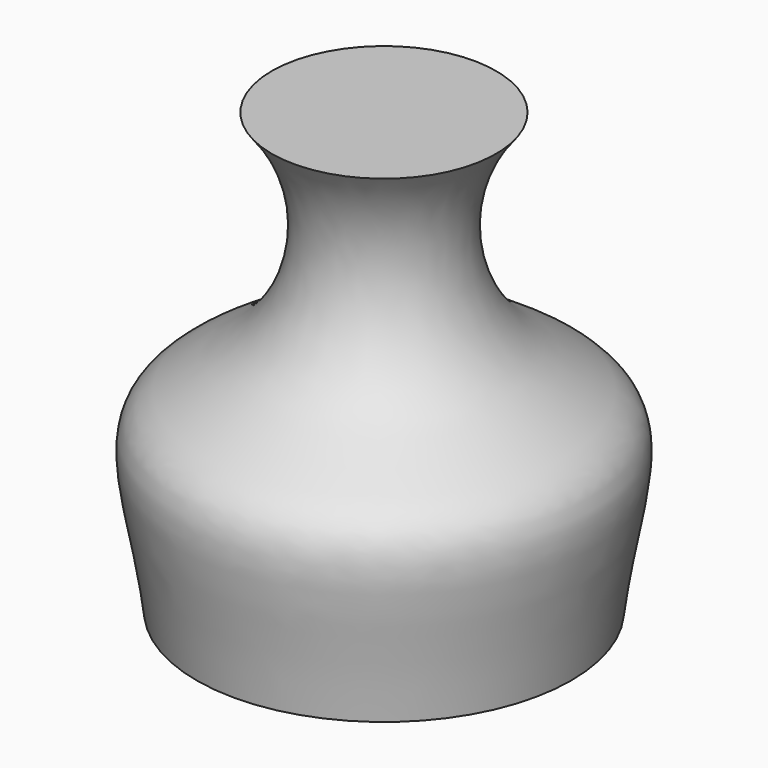
from build123d import *

# Parameters (mm, degrees)
F2_T = -2.5


with BuildPart() as f1:
    # F0 (on Front) → F1 (revolve)
    with BuildSketch(Plane.XZ):
        with BuildLine():
            Line((-26.223372668, 0), (0, 0))
            Line((0, 0), (0, 61.4430904388))
            Line((0, 61.4430904388), (-15.6957414001, 61.4430904388))
            add(Edge.make_bspline(
                [(-15.6957414001, 61.4430904388), (-7.9680195577, 52.0949276143), (-11.1364378066, 32.2664395511), (-33.6386575739, 25.8469480055), (-27.6943780482, 12.4342106283), (-26.223372668, 0)],
                knots=[0, 0, 0, 0, 0.3633686525, 0.6520726637, 1, 1, 1, 1], degree=3))
        make_face()
    revolve(axis=Axis((0, 0, 30.7215452194), (0, 0, 1)))

    # F2 (hollow: no face is removed)
    offset(amount=F2_T, kind=Kind.INTERSECTION, mode=Mode.SUBTRACT)


solid = f1.part
